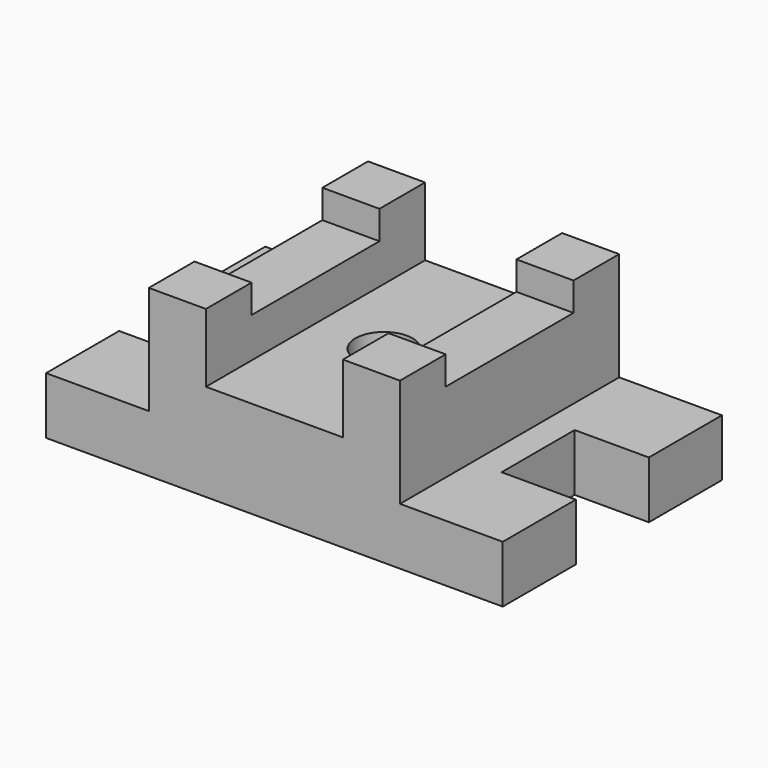
from build123d import *

# Parameters (mm, degrees)
F0_W     = 31.75
F0_H     = 31.75
F0_R     = 15.875
F0_H_2   = 88.9
F1_DEPTH = 31.75
F2_DEPTH = 92.075
F3_DEPTH = 76.2
F4_DEPTH = 53.975


with BuildPart() as f1:
    # F0 (on Top) → F1 (new body)
    with BuildSketch(Plane.XY):
        with Locations((53.975, -60.325)):
            Rectangle(F0_W, F0_H)
        with Locations((-53.975, -60.325)):
            Rectangle(F0_W, F0_H)
        with Locations((-53.975, 60.325)):
            Rectangle(F0_W, F0_H)
        with Locations((53.975, 60.325)):
            Rectangle(F0_W, F0_H)
        Polygon((127, 25.4), (127, 76.2), (69.85, 76.2), (69.85, 44.45), (69.85, -44.45), (69.85, -76.2), (127, -76.2), (127, -25.4), (85.725, -25.4), (85.725, 25.4), align=None)
        Polygon((-69.85, 44.45), (-69.85, 76.2), (-127, 76.2), (-127, 25.4), (-85.725, 25.4), (-85.725, -25.4), (-127, -25.4), (-127, -76.2), (-69.85, -76.2), (-69.85, -44.45), align=None)
        Polygon((38.1, 44.45), (38.1, 76.2), (-38.1, 76.2), (-38.1, 44.45), (-38.1, -44.45), (-38.1, -76.2), (38.1, -76.2), (38.1, -44.45), align=None)
        Circle(F0_R, mode=Mode.SUBTRACT)
        with Locations((53.975, 0)):
            Rectangle(F0_W, F0_H_2)
        with Locations((-53.975, 0)):
            Rectangle(F0_W, F0_H_2)
    extrude(amount=F1_DEPTH)

    # F0 (on Top) → F2 (join)
    with BuildSketch(Plane.XY):
        with Locations((-53.975, 60.325)):
            Rectangle(F0_W, F0_H)
        with Locations((-53.975, -60.325)):
            Rectangle(F0_W, F0_H)
        with Locations((53.975, 60.325)):
            Rectangle(F0_W, F0_H)
        with Locations((53.975, -60.325)):
            Rectangle(F0_W, F0_H)
    extrude(amount=F2_DEPTH)

    # F0 (on Top) → F3 (join)
    with BuildSketch(Plane.XY):
        with Locations((-53.975, 0)):
            Rectangle(F0_W, F0_H_2)
        with Locations((53.975, 0)):
            Rectangle(F0_W, F0_H_2)
    extrude(amount=F3_DEPTH)

    # F0 (on Top) → F4 (join)
    with BuildSketch(Plane.XY):
        Polygon((38.1, 44.45), (38.1, 76.2), (-38.1, 76.2), (-38.1, 44.45), (-38.1, -44.45), (-38.1, -76.2), (38.1, -76.2), (38.1, -44.45), align=None)
        Circle(F0_R, mode=Mode.SUBTRACT)
    extrude(amount=F4_DEPTH)


solid = f1.part
